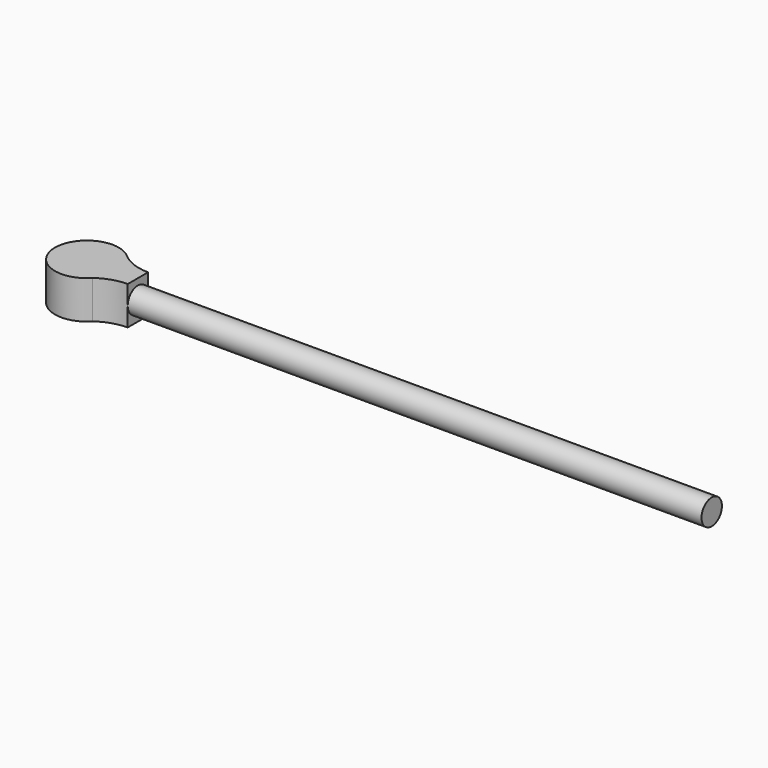
from build123d import *

# Parameters (mm, degrees)
F1_DEPTH = 3.81
F2_R     = 1.27
F3_DEPTH = 57.15


with BuildPart() as f1:
    # F0 (on Top) → F1 (new body)
    with BuildSketch(Plane.XY):
        with BuildLine():
            ThreePointArc((0, 1.27), (-1.535888, 1.535698), (-2.893261, 2.301912))
            ThreePointArc((-2.893261, 2.301912), (-8.253821, -0.0865), (-2.771127, -2.179388))
            ThreePointArc((-2.771127, -2.179388), (-1.460022, -1.497802), (0, -1.27))
            Line((0, -1.27), (0, 1.27))
        make_face()
    extrude(amount=F1_DEPTH)

    # F2 (on Right) → F3 (join)
    with BuildSketch(Plane.YZ):
        with Locations((0, 1.905)):
            Circle(F2_R)
    extrude(amount=F3_DEPTH)


solid = f1.part
